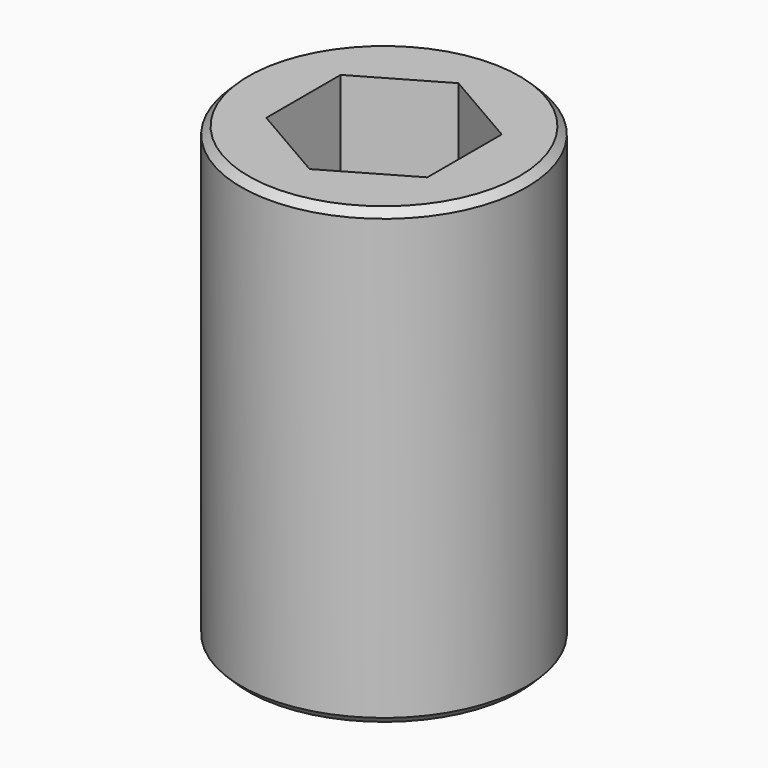
from build123d import *

# Parameters (mm, degrees)
CYLINDER006_R     = 1.95
CYLINDER006_DEPTH = 6.2
POCKET_DEPTH      = 3.2
CHAMFER001_SIZE   = 0.1
CHAMFER002_SIZE   = 0.1


with BuildPart() as part:
    # Cylinder006 → Cylinder006 (new body)
    with BuildSketch(Plane.XY):
        Circle(CYLINDER006_R)
    extrude(amount=CYLINDER006_DEPTH)

    # Sketch001 (on Face2 of Cylinder006) → Pocket (cut)
    with BuildSketch(Plane.XY.offset(6.2)):
        Polygon((-1.1, -0.635085), (-1.1, 0.635085), (0, 1.270171), (1.1, 0.635085), (1.1, -0.635085), (0, -1.270171), align=None)
    extrude(amount=-POCKET_DEPTH, mode=Mode.SUBTRACT)

    # Chamfer001
    chamfer001_edges = [part.edges().sort_by_distance(p)[0] for p in [
        (-1.95, 0, 0),
    ]]
    chamfer(chamfer001_edges, length=CHAMFER001_SIZE)

    # Chamfer002
    chamfer002_edges = [part.edges().sort_by_distance(p)[0] for p in [
        (-1.95, 0, 6.2),
    ]]
    chamfer(chamfer002_edges, length=CHAMFER002_SIZE)


solid = part.part
